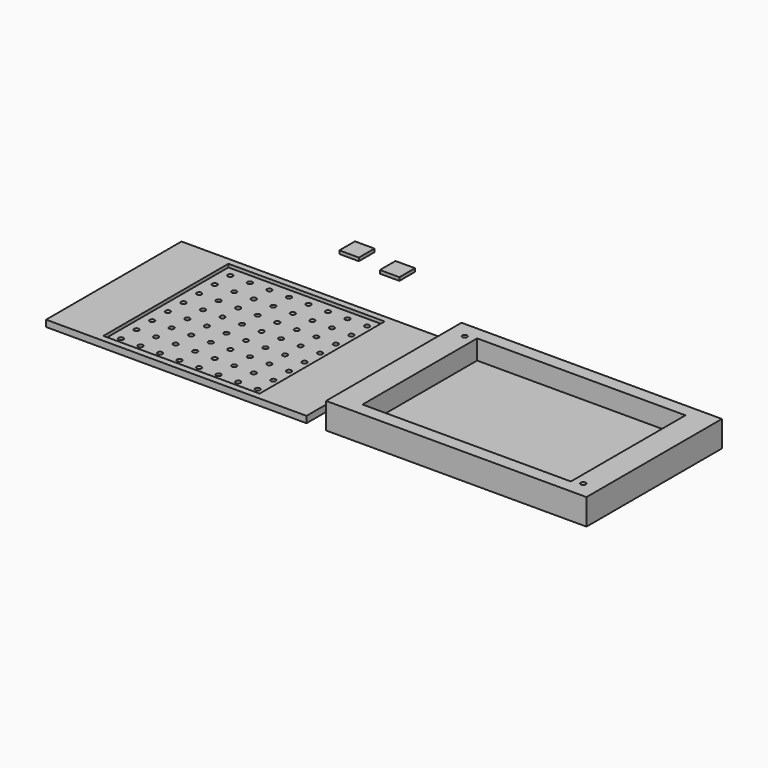
from build123d import *

# Parameters (mm, degrees)
F0_W      = 508
F0_H      = 330.2
F1_DEPTH  = 12.7
F3_R      = 4.7625
F4_DEPTH  = 6.35
F5_W      = 508
F5_H      = 330.2
F6_DEPTH  = 50.8
F7_W      = 406.4
F7_H      = 279.4
F8_DEPTH  = 38.1
F9_R      = 4.7625
F10_DEPTH = 12.7
F11_W     = 38.1
F11_H     = 38.1
F13_DEPTH = 6.35
F12_W     = 38.1
F12_H     = 38.1
F14_DEPTH = 6.35
F15_W     = 304.8
F15_H     = 304.8
F16_DEPTH = 6.35


with BuildPart() as f1:
    # F0 (on Top) → F1 (new body)
    with BuildSketch(Plane.XY):
        with Locations((-254, -165.1)):
            Rectangle(F0_W, F0_H)
        with Locations((-254, -165.1)):
            Rectangle(F0_W, F0_H)
    extrude(amount=F1_DEPTH)

    # F3 (on face) → F4 (cut)
    with BuildSketch(Plane(origin=(0, 0, 0), x_dir=(1, 0, 0), z_dir=(0, 0, -1))):
        with Locations((-476.25, 298.45)):
            Circle(F3_R)
        with Locations((-387.35, 298.45)):
            Circle(F3_R)
        with Locations((-31.75, 298.45)):
            Circle(F3_R)
        with Locations((-476.25, 260.35)):
            Circle(F3_R)
        with Locations((-476.25, 222.25)):
            Circle(F3_R)
        with Locations((-476.25, 184.15)):
            Circle(F3_R)
        with Locations((-476.25, 146.05)):
            Circle(F3_R)
        with Locations((-476.25, 107.95)):
            Circle(F3_R)
        with Locations((-476.25, 69.85)):
            Circle(F3_R)
        with Locations((-476.25, 31.75)):
            Circle(F3_R)
        with Locations((-438.15, 298.45)):
            Circle(F3_R)
        with Locations((-438.15, 260.35)):
            Circle(F3_R)
        with Locations((-438.15, 222.25)):
            Circle(F3_R)
        with Locations((-438.15, 184.15)):
            Circle(F3_R)
        with Locations((-438.15, 146.05)):
            Circle(F3_R)
        with Locations((-438.15, 107.95)):
            Circle(F3_R)
        with Locations((-438.15, 69.85)):
            Circle(F3_R)
        with Locations((-438.15, 31.75)):
            Circle(F3_R)
        with Locations((-387.35, 260.35)):
            Circle(F3_R)
        with Locations((-387.35, 222.25)):
            Circle(F3_R)
        with Locations((-387.35, 184.15)):
            Circle(F3_R)
        with Locations((-387.35, 146.05)):
            Circle(F3_R)
        with Locations((-387.35, 107.95)):
            Circle(F3_R)
        with Locations((-387.35, 69.85)):
            Circle(F3_R)
        with Locations((-387.35, 31.75)):
            Circle(F3_R)
        with Locations((-349.25, 298.45)):
            Circle(F3_R)
        with Locations((-349.25, 260.35)):
            Circle(F3_R)
        with Locations((-349.25, 222.25)):
            Circle(F3_R)
        with Locations((-349.25, 184.15)):
            Circle(F3_R)
        with Locations((-349.25, 146.05)):
            Circle(F3_R)
        with Locations((-349.25, 107.95)):
            Circle(F3_R)
        with Locations((-349.25, 69.85)):
            Circle(F3_R)
        with Locations((-349.25, 31.75)):
            Circle(F3_R)
        with Locations((-311.15, 298.45)):
            Circle(F3_R)
        with Locations((-311.15, 260.35)):
            Circle(F3_R)
        with Locations((-311.15, 222.25)):
            Circle(F3_R)
        with Locations((-311.15, 184.15)):
            Circle(F3_R)
        with Locations((-311.15, 146.05)):
            Circle(F3_R)
        with Locations((-311.15, 107.95)):
            Circle(F3_R)
        with Locations((-311.15, 69.85)):
            Circle(F3_R)
        with Locations((-311.15, 31.75)):
            Circle(F3_R)
        with Locations((-273.05, 298.45)):
            Circle(F3_R)
        with Locations((-273.05, 260.35)):
            Circle(F3_R)
        with Locations((-273.05, 222.25)):
            Circle(F3_R)
        with Locations((-273.05, 184.15)):
            Circle(F3_R)
        with Locations((-273.05, 146.05)):
            Circle(F3_R)
        with Locations((-273.05, 107.95)):
            Circle(F3_R)
        with Locations((-273.05, 69.85)):
            Circle(F3_R)
        with Locations((-273.05, 31.75)):
            Circle(F3_R)
        with Locations((-234.95, 298.45)):
            Circle(F3_R)
        with Locations((-234.95, 260.35)):
            Circle(F3_R)
        with Locations((-234.95, 222.25)):
            Circle(F3_R)
        with Locations((-234.95, 184.15)):
            Circle(F3_R)
        with Locations((-234.95, 146.05)):
            Circle(F3_R)
        with Locations((-234.95, 107.95)):
            Circle(F3_R)
        with Locations((-234.95, 69.85)):
            Circle(F3_R)
        with Locations((-234.95, 31.75)):
            Circle(F3_R)
        with Locations((-196.85, 298.45)):
            Circle(F3_R)
        with Locations((-196.85, 260.35)):
            Circle(F3_R)
        with Locations((-196.85, 222.25)):
            Circle(F3_R)
        with Locations((-196.85, 184.15)):
            Circle(F3_R)
        with Locations((-196.85, 146.05)):
            Circle(F3_R)
        with Locations((-196.85, 107.95)):
            Circle(F3_R)
        with Locations((-196.85, 69.85)):
            Circle(F3_R)
        with Locations((-196.85, 31.75)):
            Circle(F3_R)
        with Locations((-158.75, 298.45)):
            Circle(F3_R)
        with Locations((-158.75, 260.35)):
            Circle(F3_R)
        with Locations((-158.75, 222.25)):
            Circle(F3_R)
        with Locations((-158.75, 184.15)):
            Circle(F3_R)
        with Locations((-158.75, 146.05)):
            Circle(F3_R)
        with Locations((-158.75, 107.95)):
            Circle(F3_R)
        with Locations((-158.75, 69.85)):
            Circle(F3_R)
        with Locations((-158.75, 31.75)):
            Circle(F3_R)
        with Locations((-120.65, 298.45)):
            Circle(F3_R)
        with Locations((-120.65, 260.35)):
            Circle(F3_R)
        with Locations((-120.65, 222.25)):
            Circle(F3_R)
        with Locations((-120.65, 184.15)):
            Circle(F3_R)
        with Locations((-120.65, 146.05)):
            Circle(F3_R)
        with Locations((-120.65, 107.95)):
            Circle(F3_R)
        with Locations((-120.65, 69.85)):
            Circle(F3_R)
        with Locations((-120.65, 31.75)):
            Circle(F3_R)
        with Locations((-31.75, 260.35)):
            Circle(F3_R)
        with Locations((-31.75, 222.25)):
            Circle(F3_R)
        with Locations((-31.75, 184.15)):
            Circle(F3_R)
        with Locations((-31.75, 146.05)):
            Circle(F3_R)
        with Locations((-31.75, 107.95)):
            Circle(F3_R)
        with Locations((-31.75, 69.85)):
            Circle(F3_R)
        with Locations((-31.75, 31.75)):
            Circle(F3_R)
        with Locations((-69.85, 298.45)):
            Circle(F3_R)
        with Locations((-69.85, 260.35)):
            Circle(F3_R)
        with Locations((-69.85, 222.25)):
            Circle(F3_R)
        with Locations((-69.85, 184.15)):
            Circle(F3_R)
        with Locations((-69.85, 146.05)):
            Circle(F3_R)
        with Locations((-69.85, 107.95)):
            Circle(F3_R)
        with Locations((-69.85, 69.85)):
            Circle(F3_R)
        with Locations((-69.85, 31.75)):
            Circle(F3_R)
    extrude(amount=-F4_DEPTH, mode=Mode.SUBTRACT)

    # F15 (on face) → F16 (cut)
    with BuildSketch(Plane.XY.offset(12.7)):
        with Locations((-254, -165.1)):
            Rectangle(F15_W, F15_H)
    extrude(amount=-F16_DEPTH, mode=Mode.SUBTRACT)


with BuildPart() as f6:
    # F5 (on Top) → F6 (new body)
    with BuildSketch(Plane.XY):
        with Locations((292.1, -165.1)):
            Rectangle(F5_W, F5_H)
    extrude(amount=F6_DEPTH)

    # F7 (on face) → F8 (cut)
    with BuildSketch(Plane.XY.offset(50.8)):
        with Locations((292.1, -165.1)):
            Rectangle(F7_W, F7_H)
    extrude(amount=-F8_DEPTH, mode=Mode.SUBTRACT)

    # F9 (on face) → F10 (cut)
    with BuildSketch(Plane.XY.offset(50.8)):
        with Locations((69.85, -31.75)):
            Circle(F9_R)
        with Locations((514.35, -298.45)):
            Circle(F9_R)
    extrude(amount=-F10_DEPTH, mode=Mode.SUBTRACT)


with BuildPart() as f13:
    # F11 (on Top) → F13 (new body)
    with BuildSketch(Plane.XY):
        with Locations((-290.60671, 155.919269)):
            Rectangle(F11_W, F11_H)
    extrude(amount=F13_DEPTH)


with BuildPart() as f14:
    # F12 (on Top) → F14 (new body)
    with BuildSketch(Plane.XY):
        with Locations((-201.915028, 143.879248)):
            Rectangle(F12_W, F12_H)
    extrude(amount=F14_DEPTH)


solid = Compound([f1.part, f6.part, f13.part, f14.part])
